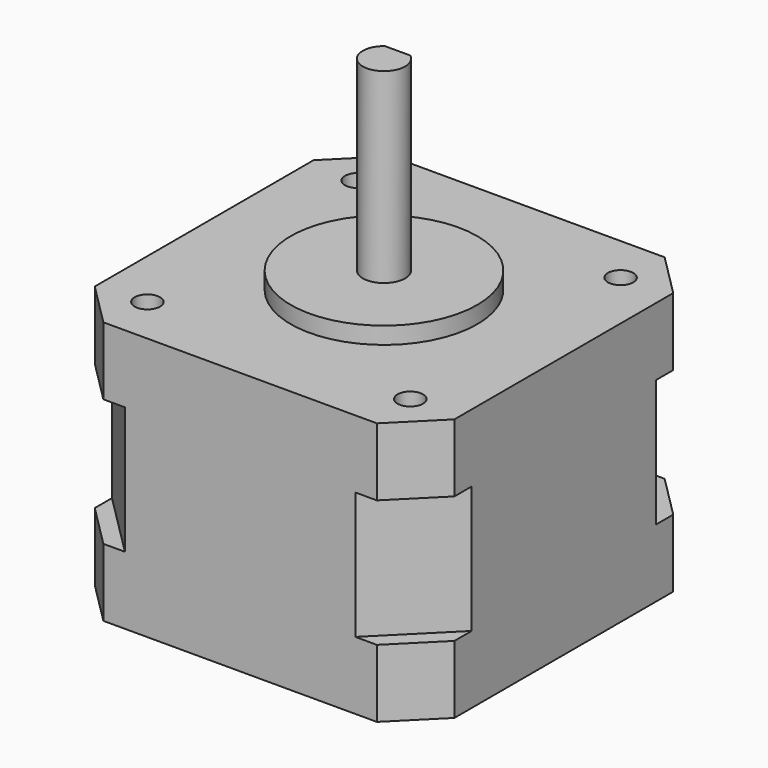
from build123d import *

# Parameters (mm, degrees)
F0_W      = 42.418
F0_H      = 42.418
F4_DEPTH  = 7.5
F5_SIZE   = 7.62
F7_DEPTH  = 8
F8_SIZE   = 5.08
F10_DEPTH = 8
F11_R     = 10.9982
F12_DEPTH = 2
F13_R     = 2.5
F14_DEPTH = 22
F16_DEPTH = 15
F17_R     = 1.5
F18_DEPTH = 6.35
F21_R     = 1.5
F22_DEPTH = 6.35


with BuildPart() as f4:
    # F0 (on Top) → F4 (new body, symmetric)
    with BuildSketch(Plane.XY):
        Rectangle(F0_W, F0_H)
    extrude(amount=F4_DEPTH, both=True)

    # F5
    f5_edges = [f4.edges().sort_by_distance(p)[0] for p in [
        (21.209, 21.209, 0),
        (-21.209, 21.209, 0),
        (-21.209, -21.209, 0),
        (21.209, -21.209, 0),
    ]]
    chamfer(f5_edges, length=F5_SIZE)

    # F6 (on face) → F7 (join)
    with BuildSketch(Plane.XY.offset(7.5)):
        Polygon((13.589, 21.209), (-13.589, 21.209), (-21.209, 13.589), (-21.209, -13.589), (-13.589, -21.209), (13.589, -21.209), (21.209, -13.589), (21.209, 13.589), align=None)
        Polygon((21.209, 21.209), (13.589, 21.209), (21.209, 13.589), align=None)
        Polygon((-13.589, 21.209), (-21.209, 21.209), (-21.209, 13.589), align=None)
        Polygon((-13.589, -21.209), (-21.209, -13.589), (-21.209, -21.209), align=None)
        Polygon((21.209, -21.209), (21.209, -13.589), (13.589, -21.209), align=None)
    extrude(amount=F7_DEPTH)

    # F8
    f8_edges = [f4.edges().sort_by_distance(p)[0] for p in [
        (21.209, 21.209, 11.5),
        (-21.209, 21.209, 11.5),
        (-21.209, -21.209, 11.5),
        (21.209, -21.209, 11.5),
    ]]
    chamfer(f8_edges, length=F8_SIZE)

    # F9 (on face) → F10 (join)
    with BuildSketch(Plane(origin=(0, 0, -7.5), x_dir=(1, 0, 0), z_dir=(0, 0, -1))):
        Polygon((-13.589, 21.209), (-16.129, 21.209), (-21.209, 16.129), (-21.209, 13.589), align=None)
        Polygon((16.129, 21.209), (13.589, 21.209), (21.209, 13.589), (21.209, 16.129), align=None)
        Polygon((21.209, -16.129), (21.209, -13.589), (13.589, -21.209), (16.129, -21.209), align=None)
        Polygon((-13.589, -21.209), (-21.209, -13.589), (-21.209, -16.129), (-16.129, -21.209), align=None)
        Polygon((13.589, 21.209), (-13.589, 21.209), (-21.209, 13.589), (-21.209, -13.589), (-13.589, -21.209), (13.589, -21.209), (21.209, -13.589), (21.209, 13.589), align=None)
    extrude(amount=F10_DEPTH)

    # F11 (on face) → F12 (join)
    with BuildSketch(Plane.XY.offset(15.5)):
        Circle(F11_R)
    extrude(amount=F12_DEPTH)

    # F13 (on face) → F14 (join)
    with BuildSketch(Plane.XY.offset(17.5)):
        Circle(F13_R)
    extrude(amount=F14_DEPTH)

    # F15 (on face) → F16 (cut)
    with BuildSketch(Plane.XY.offset(39.5)):
        with BuildLine():
            Line((2.6203631624, 2.9334036984), (-2.6333660554, 2.9334036984))
            Line((-2.6333660554, 2.9334036984), (-2.6333660554, 2))
            Line((-2.6333660554, 2), (-1.5, 2))
            ThreePointArc((-1.5, 2), (0, 2.5), (1.5, 2))
            Line((1.5, 2), (2.6203631624, 2))
            Line((2.6203631624, 2), (2.6203631624, 2.9334036984))
        make_face()
        with BuildLine():
            ThreePointArc((1.5, 2), (0, 2.5), (-1.5, 2))
            Line((-1.5, 2), (1.5, 2))
        make_face()
    extrude(amount=-F16_DEPTH, mode=Mode.SUBTRACT)

    # F17 (on face) → F18 (cut)
    with BuildSketch(Plane.XY.offset(15.5)):
        with Locations((-15.5, 15.5)):
            Circle(F17_R)
        with Locations((15.5, 15.5)):
            Circle(F17_R)
        with Locations((15.5, -15.5)):
            Circle(F17_R)
        with Locations((-15.5, -15.5)):
            Circle(F17_R)
    extrude(amount=-F18_DEPTH, mode=Mode.SUBTRACT)


with BuildPart() as f19_1:
    # F19: copy of F4
    add(f4.part)


with BuildPart() as f4_1:
    add(f4.part)

    # F21 (on face) → F22 (cut)
    with BuildSketch(Plane(origin=(0, 0, -15.5), x_dir=(1, 0, 0), z_dir=(0, 0, -1))):
        with Locations((-15.5, 15.5)):
            Circle(F21_R)
        with Locations((15.5, 15.5)):
            Circle(F21_R)
        with Locations((15.5, -15.5)):
            Circle(F21_R)
        with Locations((-15.5, -15.5)):
            Circle(F21_R)
    extrude(amount=-F22_DEPTH, mode=Mode.SUBTRACT)


solid = f4_1.part
